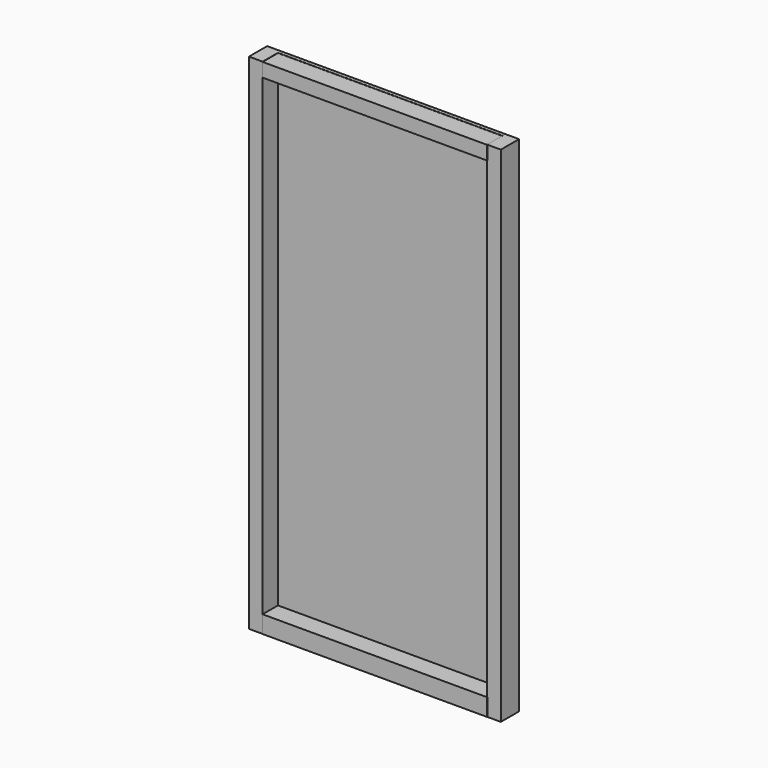
from build123d import *

# Parameters (mm, degrees)
F0_W     = 68.0070072412
F0_H     = 2500
F1_DEPTH = 113
F0_W_2   = 1113.9859855175
F2_DEPTH = 18
F4_START = 1419.86
F3_W     = 1115.6250238419
F3_H     = 113.3375018835
F4_DEPTH = 68.58
F5_START = -924.56
F5_DEPTH = 86.36


with BuildPart() as f1:
    # F0 (on Front) → F1 (new body)
    with BuildSketch(Plane.XZ):
        with Locations((-587.4015763402, 239.4538540301)):
            Rectangle(F0_W, F0_H)
    extrude(amount=F1_DEPTH)


with BuildPart() as f1b:
    # F0 (on Front) → F1, piece 2 (new body)
    with BuildSketch(Plane.XZ):
        with Locations((594.5914164186, 239.4538540301)):
            Rectangle(F0_W, F0_H)
    extrude(amount=F1_DEPTH)


with BuildPart() as f2:
    # F0 (on Front) → F2 (new body)
    with BuildSketch(Plane.XZ):
        with Locations((3.5949200392, 239.4538540301)):
            Rectangle(F0_W_2, F0_H)
    extrude(amount=F2_DEPTH)


with BuildPart() as f4:
    # F3 (on Top) → F4 (new body)
    with BuildSketch(Plane.XY.offset(F4_START)):
        with Locations((3.5949349403, -56.6687509418)):
            Rectangle(F3_W, F3_H)
    extrude(amount=F4_DEPTH)


with BuildPart() as f5:
    # F3 (on Top) → F5 (new body)
    with BuildSketch(Plane.XY.offset(F5_START)):
        with Locations((3.5949349403, -56.6687509418)):
            Rectangle(F3_W, F3_H)
    extrude(amount=-F5_DEPTH)


solid = Compound([f1.part, f1b.part, f2.part, f4.part, f5.part])
